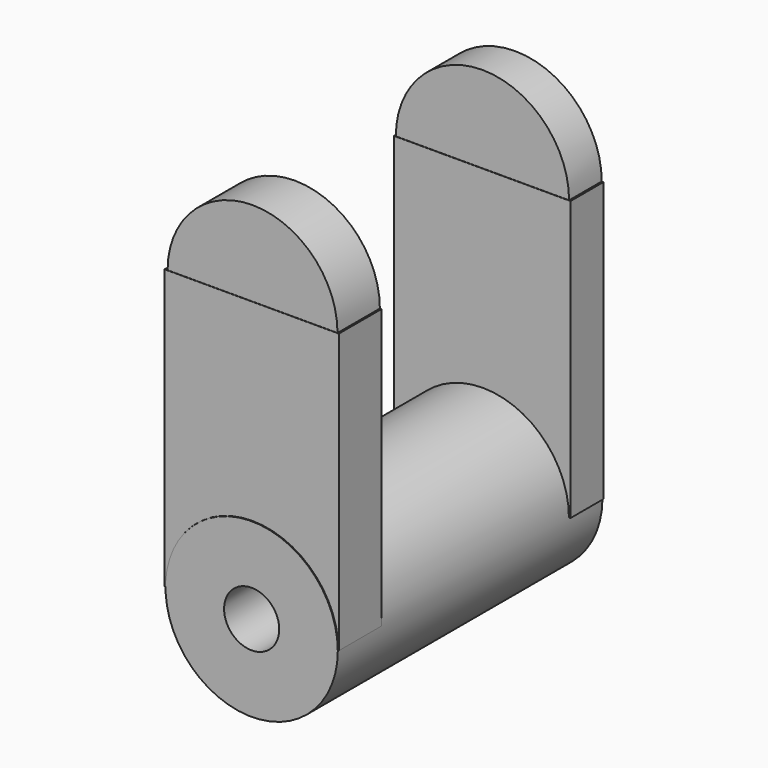
from build123d import *

# Parameters (mm, degrees)
F0_R      = 19.8409660839
F1_DEPTH  = 38.1
F3_W      = 40.1443894953
F3_H      = 12.2663397342
F4_DEPTH  = 64.262
F5_W      = 40.7019536942
F5_H      = 9.4785336405
F6_DEPTH  = 64.262
F7_D      = 12.7
F9_DEPTH  = 12.192
F11_DEPTH = 9.398


with BuildPart() as f1:
    # F0 (on Front) → F1 (new body, symmetric)
    with BuildSketch(Plane.XZ):
        Circle(F0_R)
    extrude(amount=F1_DEPTH, both=True)

    # F3 (on Top) → F4 (join)
    with BuildSketch(Plane.XY):
        with Locations((-0.1393901184, -31.7809758708)):
            Rectangle(F3_W, F3_H)
    extrude(amount=F4_DEPTH)

    # F5 (on Top) → F6 (join)
    with BuildSketch(Plane.XY):
        with Locations((-0.1393901184, 33.1748789176)):
            Rectangle(F5_W, F5_H)
    extrude(amount=F6_DEPTH)

    # F7 (through all)
    with Locations(Plane(origin=(0, 38.1, 0), x_dir=(-1, 0, 0), z_dir=(0, 1, 0))):
        with Locations((0, 0)):
            Hole(F7_D / 2)

    # F8 (on face) → F9 (join)
    with BuildSketch(Plane(origin=(0, -25.6478060037, 0), x_dir=(-1, 0, 0), z_dir=(0, 1, 0))):
        with BuildLine():
            Line((-19.566863193, 64.262), (19.566863193, 64.262))
            ThreePointArc((19.566863193, 64.262), (0, 83.828863193), (-19.566863193, 64.262))
        make_face()
    extrude(amount=-F9_DEPTH)

    # F10 (on face) → F11 (join)
    with BuildSketch(Plane(origin=(0, 37.9141457379, 0), x_dir=(-1, 0, 0), z_dir=(0, 1, 0))):
        with BuildLine():
            Line((-19.8116342985, 64.262), (20.0904145353, 64.262))
            ThreePointArc((20.0904145353, 64.262), (0.1393901184, 84.2130244169), (-19.8116342985, 64.262))
        make_face()
    extrude(amount=-F11_DEPTH)


solid = f1.part
